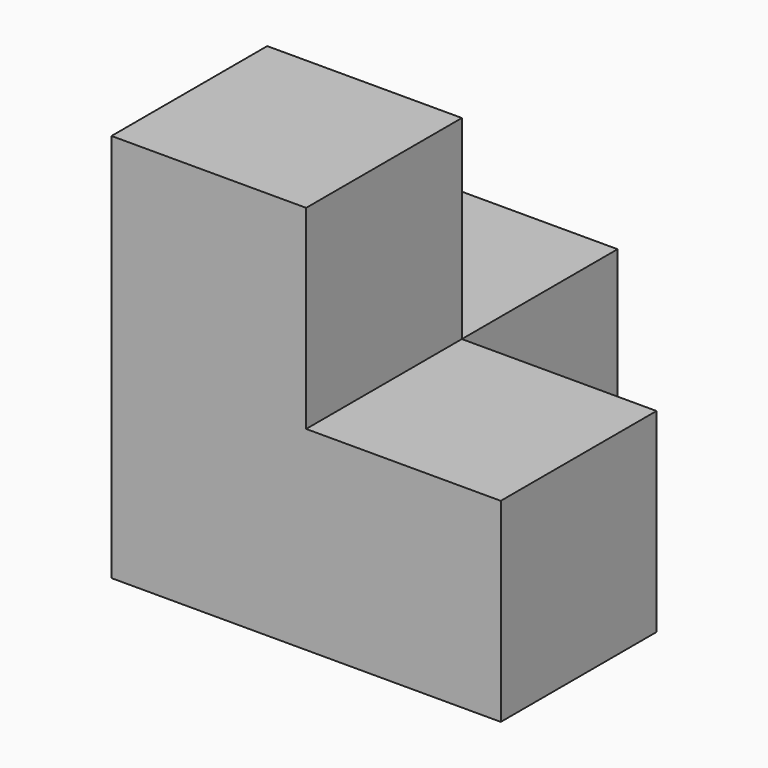
from build123d import *

# Parameters (mm, degrees)
BOX001_W     = 10
BOX001_H     = 10
BOX001_DEPTH = 10
BOX002_W     = 10
BOX002_H     = 10
BOX002_DEPTH = 10
BOX003_W     = 10
BOX003_H     = 10
BOX003_DEPTH = 10
BOX_W        = 10
BOX_H        = 10
BOX_DEPTH    = 10


with BuildPart() as nivell1_cub2:
    # Box001 → Box001 (new body)
    with BuildSketch(Plane(origin=(10, 0, 0), x_dir=(1, 0, 0), z_dir=(0, 0, 1))):
        with Locations((5, 5)):
            Rectangle(BOX001_W, BOX001_H)
    extrude(amount=BOX001_DEPTH)


with BuildPart() as nivell1_cub3:
    # Box002 → Box002 (new body)
    with BuildSketch(Plane(origin=(0, 10, 0), x_dir=(1, 0, 0), z_dir=(0, 0, 1))):
        with Locations((5, 5)):
            Rectangle(BOX002_W, BOX002_H)
    extrude(amount=BOX002_DEPTH)


with BuildPart() as nivell2_cub1:
    # Box003 → Box003 (new body)
    with BuildSketch(Plane.XY.offset(10)):
        with Locations((5, 5)):
            Rectangle(BOX003_W, BOX003_H)
    extrude(amount=BOX003_DEPTH)


with BuildPart() as fusion:
    # Box → Box (new body)
    with BuildSketch(Plane.XY):
        with Locations((5, 5)):
            Rectangle(BOX_W, BOX_H)
    extrude(amount=BOX_DEPTH)

    # Fusion: union nivell1_cub2, nivell1_cub3, nivell2_cub1
    add(nivell1_cub2.part)
    add(nivell1_cub3.part)
    add(nivell2_cub1.part)


solid = fusion.part
